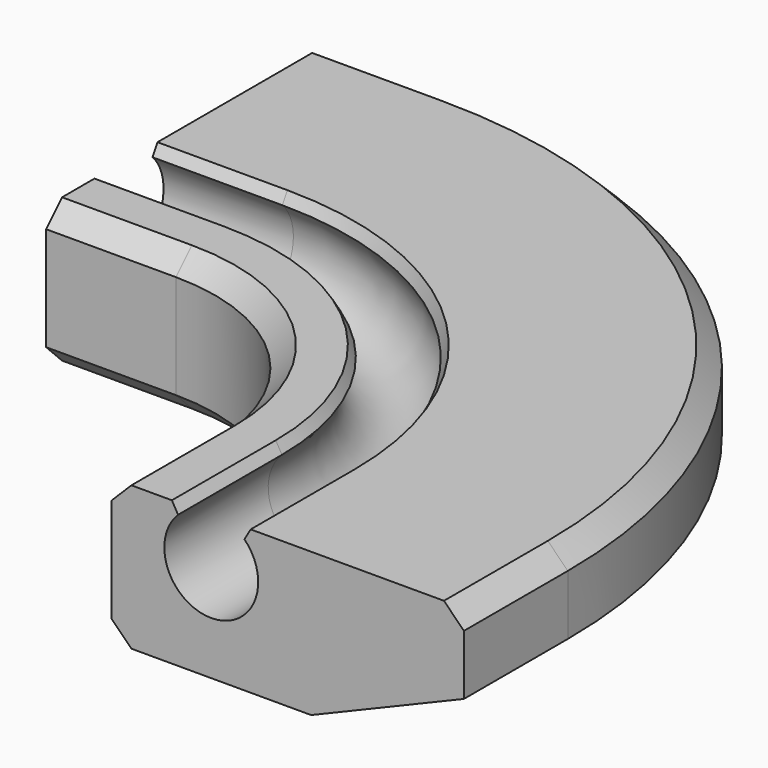
from build123d import *

# Parameters (mm, degrees)
CHAMFER_SIZE = 1


with BuildPart() as part:
    # AdditivePipe: sweep along a path in Sketch
    with BuildLine(Plane.XY) as additivepipe_path:
        Line((0, -19), (0, -12.5))
        ThreePointArc((0, -12.5), (-3.661165, -3.661165), (-12.5, 0))
        Line((-12.5, 0), (-19, 0))
    # Sketch001 → AdditivePipe (sweep)
    with BuildSketch(Plane(origin=(0, -19, 0), x_dir=(-1, 0, 0), z_dir=(0, 1, 0))):
        with BuildLine():
            Line((2.65, 2.2), (2.65, -5))
            Line((2.65, -5), (-7.35, -5))
            Line((-15, -1.8), (-7.35, -5))
            Line((-15, -1.8), (-15, 2.2))
            Line((-4.322488, 2.2), (-15, 2.2))
            Line((-4.322488, 2.2), (-4.011701, 1.661701))
            ThreePointArc((-4.011701, 1.661701), (-2.35, -2.35), (-0.688299, 1.661701))
            Line((-0.377512, 2.2), (-0.688299, 1.661701))
            Line((2.65, 2.2), (-0.377512, 2.2))
        make_face()
    sweep(path=additivepipe_path.line)

    # Chamfer
    chamfer_edges = [part.edges().sort_by_distance(p)[0] for p in [
        (-2.65, -15.75, -5),
        (-2.65, -15.75, 2.2),
        (15, -15.75, 2.2),
    ]]
    chamfer(chamfer_edges, length=CHAMFER_SIZE)


solid = part.part
